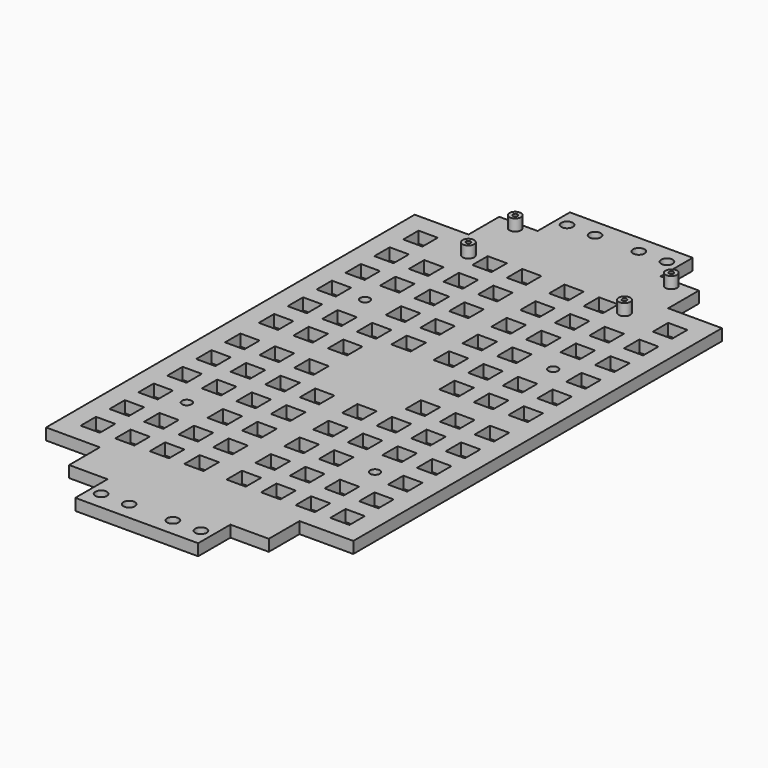
from build123d import *

# Parameters (mm, degrees)
F0_W     = 5
F0_H     = 5
F0_R     = 1.5
F1_DEPTH = 3
F3_R     = 1.25
F5_DEPTH = 5
F4_R     = 0.6
F6_DEPTH = 5
F7_R     = 3
F7_R_2   = 1.25
F8_DEPTH = 3
F7_R_3   = 1.5
F7_R_4   = 0.6
F9_DEPTH = 6


with BuildPart() as f1:
    # F0 (on Top) → F1 (new body)
    with BuildSketch(Plane.XY):
        Polygon((16, 80.5), (0, 80.5), (-16, 80.5), (-16, 70), (-26, 70), (-26, 60), (-40, 60), (-40, 0), (-40, -60), (-26, -60), (-26, -70), (-16, -70), (-16, -80.5), (0, -80.5), (16, -80.5), (16, -70), (26, -70), (26, -60), (40, -60), (40, 0), (40, 60), (26, 60), (26, 70), (16, 70), align=None)
        with Locations((-32.5, -52.5)):
            Rectangle(F0_W, F0_H, mode=Mode.SUBTRACT)
        with Locations((-32.5, -43.1)):
            Rectangle(F0_W, F0_H, mode=Mode.SUBTRACT)
        with Locations((-23.5, -52.5)):
            Rectangle(F0_W, F0_H, mode=Mode.SUBTRACT)
        with Locations((-23.5, -43.1)):
            Rectangle(F0_W, F0_H, mode=Mode.SUBTRACT)
        with Locations((-13, -75.84)):
            Circle(F0_R, mode=Mode.SUBTRACT)
        with Locations((-5.7, -75.84)):
            Circle(F0_R, mode=Mode.SUBTRACT)
        with Locations((-14.5, -52.5)):
            Rectangle(F0_W, F0_H, mode=Mode.SUBTRACT)
        with Locations((-14.5, -43.1)):
            Rectangle(F0_W, F0_H, mode=Mode.SUBTRACT)
        with Locations((-5.5, -52.5)):
            Rectangle(F0_W, F0_H, mode=Mode.SUBTRACT)
        with Locations((-5.5, -43.1)):
            Rectangle(F0_W, F0_H, mode=Mode.SUBTRACT)
        with Locations((-32.5, -33.7)):
            Rectangle(F0_W, F0_H, mode=Mode.SUBTRACT)
        with Locations((-32.5, -24.3)):
            Rectangle(F0_W, F0_H, mode=Mode.SUBTRACT)
        with Locations((-23.5, -24.3)):
            Rectangle(F0_W, F0_H, mode=Mode.SUBTRACT)
        with Locations((-32.5, -14.9)):
            Rectangle(F0_W, F0_H, mode=Mode.SUBTRACT)
        with Locations((-32.5, -5.5)):
            Rectangle(F0_W, F0_H, mode=Mode.SUBTRACT)
        with Locations((-23.5, -14.9)):
            Rectangle(F0_W, F0_H, mode=Mode.SUBTRACT)
        with Locations((-23.5, -5.5)):
            Rectangle(F0_W, F0_H, mode=Mode.SUBTRACT)
        with Locations((-14.5, -33.7)):
            Rectangle(F0_W, F0_H, mode=Mode.SUBTRACT)
        with Locations((-14.5, -24.3)):
            Rectangle(F0_W, F0_H, mode=Mode.SUBTRACT)
        with Locations((-5.5, -33.7)):
            Rectangle(F0_W, F0_H, mode=Mode.SUBTRACT)
        with Locations((-5.5, -24.3)):
            Rectangle(F0_W, F0_H, mode=Mode.SUBTRACT)
        with Locations((-14.5, -14.9)):
            Rectangle(F0_W, F0_H, mode=Mode.SUBTRACT)
        with Locations((-14.5, -5.5)):
            Rectangle(F0_W, F0_H, mode=Mode.SUBTRACT)
        with Locations((-5.5, -14.9)):
            Rectangle(F0_W, F0_H, mode=Mode.SUBTRACT)
        with Locations((5.7, -75.84)):
            Circle(F0_R, mode=Mode.SUBTRACT)
        with Locations((13, -75.84)):
            Circle(F0_R, mode=Mode.SUBTRACT)
        with Locations((5.5, -52.5)):
            Rectangle(F0_W, F0_H, mode=Mode.SUBTRACT)
        with Locations((5.5, -43.1)):
            Rectangle(F0_W, F0_H, mode=Mode.SUBTRACT)
        with Locations((14.5, -52.5)):
            Rectangle(F0_W, F0_H, mode=Mode.SUBTRACT)
        with Locations((14.5, -43.1)):
            Rectangle(F0_W, F0_H, mode=Mode.SUBTRACT)
        with Locations((23.5, -52.5)):
            Rectangle(F0_W, F0_H, mode=Mode.SUBTRACT)
        with Locations((23.5, -43.1)):
            Rectangle(F0_W, F0_H, mode=Mode.SUBTRACT)
        with Locations((32.5, -52.5)):
            Rectangle(F0_W, F0_H, mode=Mode.SUBTRACT)
        with Locations((32.5, -43.1)):
            Rectangle(F0_W, F0_H, mode=Mode.SUBTRACT)
        with Locations((5.5, -33.7)):
            Rectangle(F0_W, F0_H, mode=Mode.SUBTRACT)
        with Locations((5.5, -24.3)):
            Rectangle(F0_W, F0_H, mode=Mode.SUBTRACT)
        with Locations((14.5, -33.7)):
            Rectangle(F0_W, F0_H, mode=Mode.SUBTRACT)
        with Locations((14.5, -24.3)):
            Rectangle(F0_W, F0_H, mode=Mode.SUBTRACT)
        with Locations((5.5, -14.9)):
            Rectangle(F0_W, F0_H, mode=Mode.SUBTRACT)
        with Locations((14.5, -14.9)):
            Rectangle(F0_W, F0_H, mode=Mode.SUBTRACT)
        with Locations((14.5, -5.5)):
            Rectangle(F0_W, F0_H, mode=Mode.SUBTRACT)
        with Locations((23.5, -24.3)):
            Rectangle(F0_W, F0_H, mode=Mode.SUBTRACT)
        with Locations((32.5, -33.7)):
            Rectangle(F0_W, F0_H, mode=Mode.SUBTRACT)
        with Locations((32.5, -24.3)):
            Rectangle(F0_W, F0_H, mode=Mode.SUBTRACT)
        with Locations((23.5, -14.9)):
            Rectangle(F0_W, F0_H, mode=Mode.SUBTRACT)
        with Locations((23.5, -5.5)):
            Rectangle(F0_W, F0_H, mode=Mode.SUBTRACT)
        with Locations((32.5, -14.9)):
            Rectangle(F0_W, F0_H, mode=Mode.SUBTRACT)
        with Locations((32.5, -5.5)):
            Rectangle(F0_W, F0_H, mode=Mode.SUBTRACT)
        with Locations((-32.5, 5.5)):
            Rectangle(F0_W, F0_H, mode=Mode.SUBTRACT)
        with Locations((-32.5, 14.9)):
            Rectangle(F0_W, F0_H, mode=Mode.SUBTRACT)
        with Locations((-23.5, 5.5)):
            Rectangle(F0_W, F0_H, mode=Mode.SUBTRACT)
        with Locations((-23.5, 14.9)):
            Rectangle(F0_W, F0_H, mode=Mode.SUBTRACT)
        with Locations((-32.5, 24.3)):
            Rectangle(F0_W, F0_H, mode=Mode.SUBTRACT)
        with Locations((-32.5, 33.7)):
            Rectangle(F0_W, F0_H, mode=Mode.SUBTRACT)
        with Locations((-23.5, 33.7)):
            Rectangle(F0_W, F0_H, mode=Mode.SUBTRACT)
        with Locations((-14.5, 5.5)):
            Rectangle(F0_W, F0_H, mode=Mode.SUBTRACT)
        with Locations((-14.5, 14.9)):
            Rectangle(F0_W, F0_H, mode=Mode.SUBTRACT)
        with Locations((-5.5, 14.9)):
            Rectangle(F0_W, F0_H, mode=Mode.SUBTRACT)
        with Locations((-14.5, 24.3)):
            Rectangle(F0_W, F0_H, mode=Mode.SUBTRACT)
        with Locations((-14.5, 33.7)):
            Rectangle(F0_W, F0_H, mode=Mode.SUBTRACT)
        with Locations((-5.5, 24.3)):
            Rectangle(F0_W, F0_H, mode=Mode.SUBTRACT)
        with Locations((-5.5, 33.7)):
            Rectangle(F0_W, F0_H, mode=Mode.SUBTRACT)
        with Locations((-32.5, 43.1)):
            Rectangle(F0_W, F0_H, mode=Mode.SUBTRACT)
        with Locations((-32.5, 52.5)):
            Rectangle(F0_W, F0_H, mode=Mode.SUBTRACT)
        with Locations((-23.5, 43.1)):
            Rectangle(F0_W, F0_H, mode=Mode.SUBTRACT)
        with Locations((-14.5, 43.1)):
            Rectangle(F0_W, F0_H, mode=Mode.SUBTRACT)
        with Locations((-14.5, 52.5)):
            Rectangle(F0_W, F0_H, mode=Mode.SUBTRACT)
        with Locations((-5.5, 43.1)):
            Rectangle(F0_W, F0_H, mode=Mode.SUBTRACT)
        with Locations((-5.5, 52.5)):
            Rectangle(F0_W, F0_H, mode=Mode.SUBTRACT)
        with Locations((-13, 75.84)):
            Circle(F0_R, mode=Mode.SUBTRACT)
        with Locations((-5.7, 75.84)):
            Circle(F0_R, mode=Mode.SUBTRACT)
        with Locations((5.5, 14.9)):
            Rectangle(F0_W, F0_H, mode=Mode.SUBTRACT)
        with Locations((14.5, 5.5)):
            Rectangle(F0_W, F0_H, mode=Mode.SUBTRACT)
        with Locations((14.5, 14.9)):
            Rectangle(F0_W, F0_H, mode=Mode.SUBTRACT)
        with Locations((5.5, 24.3)):
            Rectangle(F0_W, F0_H, mode=Mode.SUBTRACT)
        with Locations((5.5, 33.7)):
            Rectangle(F0_W, F0_H, mode=Mode.SUBTRACT)
        with Locations((14.5, 24.3)):
            Rectangle(F0_W, F0_H, mode=Mode.SUBTRACT)
        with Locations((14.5, 33.7)):
            Rectangle(F0_W, F0_H, mode=Mode.SUBTRACT)
        with Locations((23.5, 5.5)):
            Rectangle(F0_W, F0_H, mode=Mode.SUBTRACT)
        with Locations((23.5, 14.9)):
            Rectangle(F0_W, F0_H, mode=Mode.SUBTRACT)
        with Locations((32.5, 5.5)):
            Rectangle(F0_W, F0_H, mode=Mode.SUBTRACT)
        with Locations((32.5, 14.9)):
            Rectangle(F0_W, F0_H, mode=Mode.SUBTRACT)
        with Locations((23.5, 33.7)):
            Rectangle(F0_W, F0_H, mode=Mode.SUBTRACT)
        with Locations((32.5, 24.3)):
            Rectangle(F0_W, F0_H, mode=Mode.SUBTRACT)
        with Locations((32.5, 33.7)):
            Rectangle(F0_W, F0_H, mode=Mode.SUBTRACT)
        with Locations((5.5, 43.1)):
            Rectangle(F0_W, F0_H, mode=Mode.SUBTRACT)
        with Locations((5.5, 52.5)):
            Rectangle(F0_W, F0_H, mode=Mode.SUBTRACT)
        with Locations((14.5, 43.1)):
            Rectangle(F0_W, F0_H, mode=Mode.SUBTRACT)
        with Locations((14.5, 52.5)):
            Rectangle(F0_W, F0_H, mode=Mode.SUBTRACT)
        with Locations((5.7, 75.84)):
            Circle(F0_R, mode=Mode.SUBTRACT)
        with Locations((13, 75.84)):
            Circle(F0_R, mode=Mode.SUBTRACT)
        with Locations((23.5, 43.1)):
            Rectangle(F0_W, F0_H, mode=Mode.SUBTRACT)
        with Locations((32.5, 43.1)):
            Rectangle(F0_W, F0_H, mode=Mode.SUBTRACT)
        with Locations((32.5, 52.5)):
            Rectangle(F0_W, F0_H, mode=Mode.SUBTRACT)
    extrude(amount=F1_DEPTH)

    # F3 (on face) → F5 (cut)
    with BuildSketch(Plane.XY.offset(3)):
        with Locations((24.5, 24.4517984018)):
            Circle(F3_R)
        with Locations((-24.5, 24.4517984018)):
            Circle(F3_R)
        with Locations((-24.5, -33.5482015982)):
            Circle(F3_R)
        with Locations((24.5, -33.5482015982)):
            Circle(F3_R)
    extrude(amount=-F5_DEPTH, mode=Mode.SUBTRACT)

    # F4 (on face) → F6 (cut)
    with BuildSketch(Plane.XY.offset(3)):
        with Locations((-20.3187836187, 52.8756892553)):
            Circle(F4_R)
        with Locations((-20.32121587, 68.1156501539)):
            Circle(F4_R)
        with Locations((20.3187836187, 68.1220972666)):
            Circle(F4_R)
        with Locations((20.32121587, 52.882136368)):
            Circle(F4_R)
    extrude(amount=-F6_DEPTH, mode=Mode.SUBTRACT)

    # F7 (on face) → F8 (join)
    with BuildSketch(Plane(origin=(0, 0, 0), x_dir=(1, 0, 0), z_dir=(0, 0, -1))):
        with Locations((24.5, -24.4517984018)):
            Circle(F7_R)
        with BuildLine():
            ThreePointArc((24.5858470805, -23.2047497745), (25.4825032084, -23.5637360769), (25.8556485592, -24.4545929252))
            ThreePointArc((25.8556485592, -24.4545929252), (25.4586406897, -25.3683239717), (24.5198014787, -25.7016415525))
            ThreePointArc((24.5198014787, -25.7016415525), (23.2504370595, -24.4187460536), (24.5858470805, -23.2047497745))
        make_face(mode=Mode.SUBTRACT)
        with Locations((-24.5, -24.4517984018)):
            Circle(F7_R)
        with Locations((-24.5, -24.4517984018)):
            Circle(F7_R_2, mode=Mode.SUBTRACT)
        with Locations((24.5, 33.5482015982)):
            Circle(F7_R)
        with Locations((24.5, 33.5482015982)):
            Circle(F7_R_2, mode=Mode.SUBTRACT)
        with BuildLine():
            ThreePointArc((-23.2600807783, 36.0426526152), (-23.2663346007, 36.1675343418), (-23.2850334913, 36.2911664873))
            ThreePointArc((-23.2850334913, 36.2911664873), (-24.512123745, 36.5481771006), (-25.7370966473, 36.2812570103))
            ThreePointArc((-25.7370966473, 36.2812570103), (-25.499003123, 35.2781053006), (-24.58812476, 34.7950913394))
            ThreePointArc((-24.58812476, 34.7950913394), (-24.5050515604, 34.7981913909), (-24.4219560183, 34.795762874))
            ThreePointArc((-24.4219560183, 34.795762874), (-23.5955710873, 35.1904953381), (-23.2600807783, 36.0426526152))
        make_face()
        with BuildLine():
            ThreePointArc((-25.7370966473, 36.2812570103), (-26.1261472962, 31.0271611442), (-21.5, 33.5482015982))
            ThreePointArc((-21.5, 33.5482015982), (-21.9855517975, 35.1845237661), (-23.2850334913, 36.2911664873))
            ThreePointArc((-23.2850334913, 36.2911664873), (-23.2663346007, 36.1675343418), (-23.2600807783, 36.0426526152))
            ThreePointArc((-23.2600807783, 36.0426526152), (-23.5955710873, 35.1904953381), (-24.4219560183, 34.795762874))
            ThreePointArc((-24.4219560183, 34.795762874), (-23.5889415559, 34.4040476775), (-23.25, 33.5482015982))
            ThreePointArc((-23.25, 33.5482015982), (-25.3521572771, 32.6336919072), (-24.58812476, 34.7950913394))
            ThreePointArc((-24.58812476, 34.7950913394), (-25.499003123, 35.2781053006), (-25.7370966473, 36.2812570103))
        make_face()
    extrude(amount=F8_DEPTH)

    # F7 (on face) → F9 (join)
    with BuildSketch(Plane(origin=(0, 0, 0), x_dir=(1, 0, 0), z_dir=(0, 0, -1))):
        with Locations((20.32121587, -52.882136368)):
            Circle(F7_R_3)
        with Locations((20.32121587, -52.882136368)):
            Circle(F7_R_4, mode=Mode.SUBTRACT)
        with Locations((20.3187836187, -68.1220972666)):
            Circle(F7_R_3)
        with Locations((20.3187836187, -68.1220972666)):
            Circle(F7_R_4, mode=Mode.SUBTRACT)
        with Locations((-20.32121587, -68.1156501539)):
            Circle(F7_R_3)
        with Locations((-20.32121587, -68.1156501539)):
            Circle(F7_R_4, mode=Mode.SUBTRACT)
        with Locations((-20.3187836187, -52.8756892553)):
            Circle(F7_R_3)
        with Locations((-20.3187836187, -52.8756892553)):
            Circle(F7_R_4, mode=Mode.SUBTRACT)
    extrude(amount=-F9_DEPTH)


solid = f1.part
